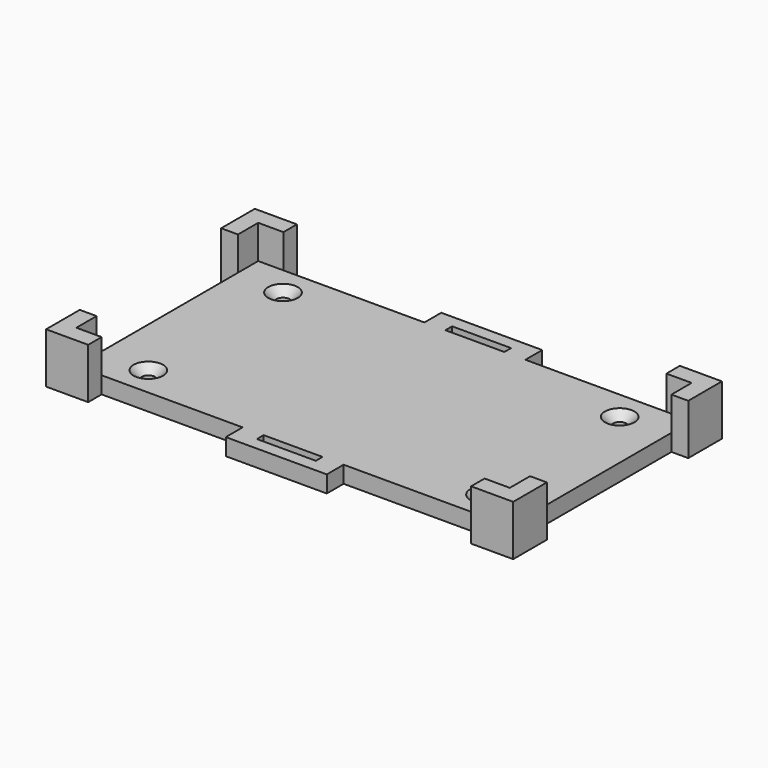
from build123d import *

# Parameters (mm, degrees)
SKETCH_W                = 103
SKETCH_H                = 54
PAD_DEPTH               = 4
PAD001_DEPTH            = 12
PAD001_MIRRORED_2_DEPTH = 12
POLARPATTERN_COUNT      = 2
HOLE_D                  = 3.2
HOLE_CSINK_D            = 7
HOLE_CSINK_ANGLE        = 90
PAD002_DEPTH            = 4


with BuildPart() as part:
    # Sketch → Pad (new body)
    with BuildSketch(Plane.XY):
        Rectangle(SKETCH_W, SKETCH_H)
    extrude(amount=PAD_DEPTH)

    # Sketch001 → Pad001 (join)
    with BuildSketch(Plane.XY):
        Polygon((-51.5, 21), (-51.5, 27), (-45.5, 27), (-45.5, 31), (-55.5, 31), (-55.5, 21), align=None)
    pad001 = extrude(amount=PAD001_DEPTH)

    # Sketch001 Mirrored 2 → Pad001 Mirrored 2 (add)
    with BuildSketch(Plane(origin=(0, 0, 0), x_dir=(-1, 0, 0), z_dir=(0, 0, -1))):
        Polygon((-51.5, 21), (-51.5, 27), (-45.5, 27), (-45.5, 31), (-55.5, 31), (-55.5, 21), align=None)
    pad001_mirrored_2 = extrude(amount=-PAD001_MIRRORED_2_DEPTH)

    # PolarPattern: Pad001, Pad001 Mirrored 2 ×2 about axis
    polarpattern_axis = Axis((0, 0, 0), (0, 0, 1))
    for i in range(1, POLARPATTERN_COUNT):
        add(pad001.rotate(polarpattern_axis, i * 360 / POLARPATTERN_COUNT))
        add(pad001_mirrored_2.rotate(polarpattern_axis, i * 360 / POLARPATTERN_COUNT))

    # Hole (through all)
    with Locations(Plane.XY.offset(4)):
        with Locations((-40, 20), (40, 20), (40, -20), (-40, -20)):
            CounterSinkHole(HOLE_D / 2, HOLE_CSINK_D / 2, counter_sink_angle=HOLE_CSINK_ANGLE)

    # Sketch004 → Pad002 (join)
    with BuildSketch(Plane.XY):
        Polygon((-7, 27), (-7, 29), (7, 29), (7, 27), (12, 27), (12, 32), (-12, 32), (-12, 27), align=None)
    pad002 = extrude(amount=PAD002_DEPTH)

    # Mirrored001: Pad002 across XZ
    add(pad002.mirror(Plane.XZ))


solid = part.part
